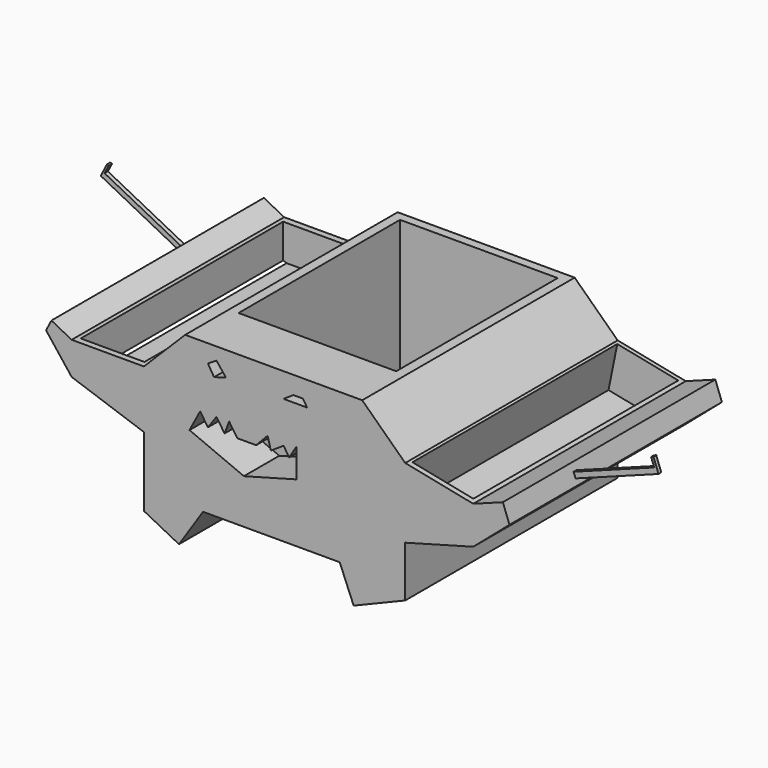
from build123d import *

# Parameters (mm, degrees)
F1_DEPTH  = 76.2
F2_W      = 45.2374
F2_H      = 57.912
F3_DEPTH  = 38.1
F4_W      = 0.9906
F4_H      = 1.6002
F5_DEPTH  = 25.4
F6_W      = 0.7274897046
F6_H      = 0.9906
F7_DEPTH  = 2.54
F8_W      = 1.1825356632
F8_H      = 1.4120219275
F9_DEPTH  = 25.4
F10_W     = 0.5234003049
F10_H     = 1.1825356632
F11_DEPTH = 2.54
F13_DEPTH = 12.7
F14_W     = 17.834963277
F14_H     = 73.4775259625
F15_DEPTH = 12.7
F16_W     = 18.2606615126
F16_H     = 72.5786741823
F17_DEPTH = 10.16


with BuildPart() as f1:
    # F0 (on Front) → F1 (new body)
    with BuildSketch(Plane.XZ):
        Polygon((8.871205765, 56.1352521181), (-41.928794235, 56.1352521181), (-53.7675097585, 44.2965365946), (-74.4852647185, 44.2965365946), (-80.3059687692, 47.2815136811), (-81.8367265829, 44.2965365946), (-74.4852647185, 34.8938606037), (-53.7675097585, 27.7223307639), (-53.7675097585, 7.7938223258), (-43.7045991421, 2.6637113187), (-36.7986820638, 13.1148345131), (2.4190642002, 13.1148345131), (6.4126392826, 3.4529594705), (21.2110355496, 9.5696300268), (21.2110355496, 24.1707172245), (40.7449230552, 29.4981393963), (51.1220302522, 38.4206696416), (49.2293350399, 43.5072891414), (40.7449230552, 40.3502993286), (21.2110355496, 44.2965365946), align=None)
    extrude(amount=F1_DEPTH)

    # F2 (on face) → F3 (cut)
    with BuildSketch(Plane.XY.offset(56.1352521181)):
        with Locations((-16.5863556839, -31.4929929974)):
            Rectangle(F2_W, F2_H)
    extrude(amount=-F3_DEPTH, mode=Mode.SUBTRACT)

    # F4 (on face) → F5 (join)
    with BuildSketch(Plane(origin=(57.4622590525, 0, 21.381301), x_dir=(0, 1, 0), z_dir=(0.9372218761, 0, 0.3487336448))):
        with Locations((-51.2663501552, 20.6706811054)):
            Rectangle(F4_W, F4_H)
    extrude(amount=F5_DEPTH)

    # F6 (on face) → F7 (join)
    with BuildSketch(Plane(origin=(-7.487583751, 0, 20.1228857485), x_dir=(0.9372218761, 0, 0.3487336448), z_dir=(-0.3487336448, 0, 0.9372218761))):
        with Locations((86.3475204084, -51.2663501552)):
            Rectangle(F6_W, F6_H)
    extrude(amount=F7_DEPTH)

    # F8 (on face) → F9 (join)
    with BuildSketch(Plane(origin=(-82.7823804145, 0, 42.4525120249), x_dir=(0, -1, 0), z_dir=(-0.8898174224, 0, 0.4563167263))):
        with Locations((28.4478189424, 4.0023266338)):
            Rectangle(F8_W, F8_H)
    extrude(amount=F9_DEPTH)

    # F10 (on face) → F11 (join)
    with BuildSketch(Plane(origin=(2.1484931989, 0, 4.1895608251), x_dir=(0.8898174224, 0, -0.4563167263), z_dir=(0.4563167263, 0, 0.8898174224))):
        with Locations((-118.1712955227, -28.4478189424)):
            Rectangle(F10_W, F10_H)
    extrude(amount=F11_DEPTH)

    # F12 (on face) → F13 (cut)
    with BuildSketch(Plane.XZ.offset(76.2)):
        Polygon((-35.403739661, 34.8885591957), (-37.6328639686, 38.2322445512), (-40.683247149, 32.4834473431), (-25.0793676823, 25.9133949876), (-9.9447797984, 30.0196781754), (-9.9447797984, 38.3495688438), (-12.0826530857, 34.8885591957), (-13.6990956962, 37.3132223095), (-17.336089164, 34.8885591957), (-18.2746686041, 38.3495688438), (-21.5596966445, 34.8885591957), (-26.9956346343, 34.8885591957), (-29.3029751629, 38.3495688438), (-30.6326299647, 34.8885591957), (-32.9399704933, 38.3495688438), align=None)
        Polygon((-30.241554603, 49.1432286799), (-32.9399704933, 52.5455772877), (-35.403739661, 51.0203875601), (-33.6285175147, 48.1527196821), align=None)
        Polygon((-8.1849442795, 51.0203875601), (-10.8833583072, 51.0203875601), (-13.6990956962, 49.1432286799), (-6.9335046121, 49.1432286799), align=None)
    extrude(amount=-F13_DEPTH, mode=Mode.SUBTRACT)

    # F14 (on face) → F15 (cut)
    with BuildSketch(Plane(origin=(9.429613944, 0, 46.6766201788), x_dir=(0.9801980455, 0, -0.198019675), z_dir=(0.198019675, 0, 0.9801980455))):
        with Locations((21.7831684276, -37.9125081236)):
            Rectangle(F14_W, F14_H)
    extrude(amount=-F15_DEPTH, mode=Mode.SUBTRACT)

    # F16 (on face) → F17 (cut)
    with BuildSketch(Plane.XY.offset(44.2965365946)):
        with Locations((-64.177474007, -38.1315993145)):
            Rectangle(F16_W, F16_H)
    extrude(amount=-F17_DEPTH, mode=Mode.SUBTRACT)


solid = f1.part
